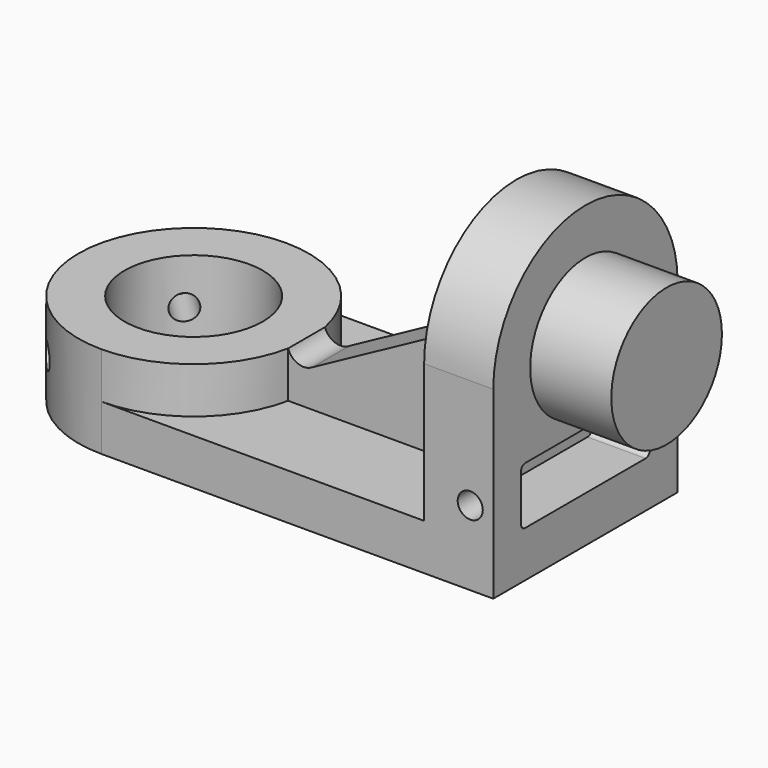
from build123d import *

# Parameters (mm, degrees)
F0_R      = 9.525
F1_DEPTH  = 6.35
F2_R      = 9.525
F3_DEPTH  = 6.35
F5_DEPTH  = 9.525
F6_R      = 9.525
F7_DEPTH  = 11.176
F9_DEPTH  = 8.001
F10_R     = 1.7272
F11_DEPTH = 31.75
F13_DEPTH = 3.175
F14_DEPTH = 3.175
F19_R     = 1.7272
F20_DEPTH = 25.4
F21_R     = 1.7272
F22_DEPTH = 25.4
F26_DEPTH = 25.4
F28_DEPTH = 25.4


with BuildPart() as f1:
    # F0 (on Top) → F1 (new body)
    with BuildSketch(Plane.XY):
        with BuildLine():
            ThreePointArc((-9.514346, 0), (-14.164026, -11.22532), (-25.389346, -15.875))
            Line((-25.389346, -15.875), (28.585654, -15.875))
            Line((28.585654, -15.875), (28.585654, 15.875))
            Line((28.585654, 15.875), (-25.389346, 15.875))
            ThreePointArc((-25.389346, 15.875), (-14.164026, 11.22532), (-9.514346, 0))
        make_face()
        with BuildLine():
            ThreePointArc((-25.389346, 15.875), (-41.264346, 0), (-25.389346, -15.875))
            ThreePointArc((-25.389346, -15.875), (-14.164026, -11.22532), (-9.514346, 0))
            ThreePointArc((-9.514346, 0), (-14.164026, 11.22532), (-25.389346, 15.875))
        make_face()
        with Locations((-25.389346, 0)):
            Circle(F0_R, mode=Mode.SUBTRACT)
    extrude(amount=F1_DEPTH)

    # F2 (on face) → F3 (join)
    with BuildSketch(Plane.XY.offset(6.35)):
        with BuildLine():
            ThreePointArc((-25.389346, -15.875), (-14.164026, -11.22532), (-9.514346, 0))
            ThreePointArc((-9.514346, 0), (-14.164026, 11.22532), (-25.389346, 15.875))
            ThreePointArc((-25.389346, 15.875), (-41.264346, 0), (-25.389346, -15.875))
        make_face()
        with Locations((-25.389346, 0)):
            Circle(F2_R, mode=Mode.SUBTRACT)
    extrude(amount=F3_DEPTH)

    # F4 (on face) → F5 (join)
    with BuildSketch(Plane.YZ.offset(28.585654)):
        with BuildLine():
            Line((-15.875, 25.4), (-15.875, 0))
            Line((-15.875, 0), (15.875, 0))
            Line((15.875, 0), (15.875, 25.4))
            ThreePointArc((15.875, 25.4), (0, 41.275), (-15.875, 25.4))
        make_face()
    extrude(amount=-F5_DEPTH)

    # F6 (on face) → F7 (join)
    with BuildSketch(Plane.YZ.offset(28.585654)):
        with Locations((0, 25.4)):
            Circle(F6_R)
    extrude(amount=F7_DEPTH)

    # F8 (on face) → F9 (cut)
    with BuildSketch(Plane.YZ.offset(28.585654)):
        with BuildLine():
            Line((-10.3505, 6.35), (10.3505, 6.35))
            ThreePointArc((10.3505, 6.35), (10.889315, 6.573185), (11.1125, 7.112))
            Line((11.1125, 7.112), (11.1125, 13.462))
            ThreePointArc((11.1125, 13.462), (10.889315, 14.000815), (10.3505, 14.224))
            Line((10.3505, 14.224), (-10.3505, 14.224))
            ThreePointArc((-10.3505, 14.224), (-10.889315, 14.000815), (-11.1125, 13.462))
            Line((-11.1125, 13.462), (-11.1125, 7.112))
            ThreePointArc((-11.1125, 7.112), (-10.889315, 6.573185), (-10.3505, 6.35))
        make_face()
    extrude(amount=-F9_DEPTH, mode=Mode.SUBTRACT)

    # F10 (on face) → F11 (cut)
    with BuildSketch(Plane.XZ.offset(15.875)):
        with Locations((25.410654, 10.287)):
            Circle(F10_R)
    extrude(amount=-F11_DEPTH, mode=Mode.SUBTRACT)

    # F19 (on face) → F20 (cut)
    with BuildSketch(Plane(origin=(-12.694673, 12.694673, 0), x_dir=(0.707107, 0.707107, 0), z_dir=(0.707107, -0.707107, 0))):
        with Locations((-17.916348, 6.420591)):
            Circle(F19_R)
    extrude(amount=-F20_DEPTH, mode=Mode.SUBTRACT)

    # F21 (on face) → F22 (cut)
    with BuildSketch(Plane(origin=(-12.694673, -12.694673, 0), x_dir=(-0.707107, 0.707107, 0), z_dir=(0.707107, 0.707107, 0))):
        with Locations((17.901907, 6.418147)):
            Circle(F21_R)
    extrude(amount=-F22_DEPTH, mode=Mode.SUBTRACT)

    # F25 (on face) → F26 (join)
    with BuildSketch(Plane.XY.offset(6.35)):
        with BuildLine():
            ThreePointArc((-9.835086, 3.175), (-9.514346, 0), (-9.835086, -3.175))
            Line((-9.835086, -3.175), (19.060654, -3.175))
            Line((19.060654, -3.175), (19.060654, 3.175))
            Line((19.060654, 3.175), (-9.835086, 3.175))
        make_face()
    extrude(amount=F26_DEPTH)

    # F27 (on face) → F28 (cut)
    with BuildSketch(Plane.XZ.offset(3.175)):
        with BuildLine():
            Line((-6.43225, 11.53927), (19.060654, 25.4))
            Line((19.060654, 25.4), (19.060654, 31.75))
            Line((19.060654, 31.75), (-9.835086, 31.75))
            Line((-9.835086, 31.75), (-9.835086, 12.7))
            ThreePointArc((-9.835086, 12.7), (-8.423755, 11.269205), (-6.43225, 11.53927))
        make_face()
    extrude(amount=-F28_DEPTH, mode=Mode.SUBTRACT)


with BuildPart() as f13:
    # F12 (on Front) → F13 (new body, symmetric)
    with BuildSketch(Plane.XZ):
        with BuildLine():
            Line((18.935824, 6.271193), (19.060654, 25.4))
            Line((19.060654, 25.4), (-5.57432, 8.746564))
            ThreePointArc((-5.57432, 8.746564), (-8.13987, 8.590052), (-9.515413, 10.761324))
            Line((-9.515413, 10.761324), (-9.515413, 6.271193))
            Line((-9.515413, 6.271193), (18.935824, 6.271193))
        make_face()
    extrude(amount=F13_DEPTH, both=True)


with BuildPart() as f14:
    # F12 (on Front) → F14 (new body, symmetric)
    with BuildSketch(Plane.XZ):
        with BuildLine():
            Line((18.935824, 6.271193), (19.060654, 25.4))
            Line((19.060654, 25.4), (-5.57432, 8.746564))
            ThreePointArc((-5.57432, 8.746564), (-8.13987, 8.590052), (-9.515413, 10.761324))
            Line((-9.515413, 10.761324), (-9.515413, 6.271193))
            Line((-9.515413, 6.271193), (18.935824, 6.271193))
        make_face()
    extrude(amount=F14_DEPTH, both=True)


solid = f1.part
